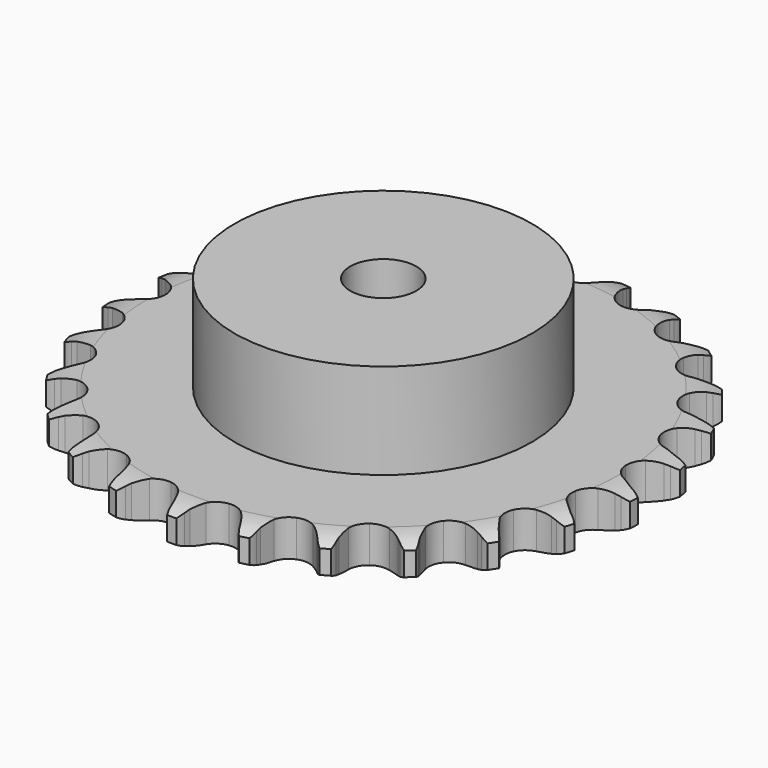
from build123d import *

# Parameters (mm, degrees)
PAD_DEPTH         = 11.1
SKETCH001_R       = 45
PAD001_DEPTH      = 40
SKETCH002_R       = 10
POCKET_DEPTH      = 0.001
POCKET_DEPTH_BACK = 40.001


with BuildPart() as part:
    # Sprocket → Pad (new body)
    with BuildSketch(Plane.XY):
        with BuildLine():
            ThreePointArc((-10.277544, 81.355136), (-8.691144, 79.605387), (-7.564451, 77.52961))
            Line((-7.564451, 77.52961), (-6.977682, 76.050618))
            ThreePointArc((-6.977682, 76.050618), (-6.042598, 74.097196), (-4.848531, 72.290419))
            ThreePointArc((-4.848531, 72.290419), (-2.704185, 70.525898), (0, 69.894126))
            ThreePointArc((0, 69.894126), (2.704185, 70.525898), (4.848531, 72.290419))
            ThreePointArc((4.848531, 72.290419), (6.042598, 74.097196), (6.977682, 76.050618))
            Line((6.977682, 76.050618), (7.564451, 77.52961))
            ThreePointArc((7.564451, 77.52961), (8.691144, 79.605387), (10.277544, 81.355136))
            ThreePointArc((10.277544, 81.355136), (11.378959, 79.265837), (11.95403, 76.975077))
            Line((11.95403, 76.975077), (12.154554, 75.396627))
            ThreePointArc((12.154554, 75.396627), (12.574465, 73.27203), (13.281691, 71.225063))
            ThreePointArc((13.281691, 71.225063), (14.919849, 68.9827), (17.381962, 67.698273))
            ThreePointArc((17.381962, 67.698273), (20.158306, 67.637693), (22.674102, 68.813502))
            Line((22.674102, 68.813502), (25.671485, 71.926069))
            ThreePointArc((25.671485, 71.926069), (26.123309, 72.581193), (26.60763, 73.212672))
            ThreePointArc((26.60763, 73.212672), (28.21515, 74.943037), (30.186855, 76.243294))
            ThreePointArc((30.186855, 76.243294), (30.73408, 73.945723), (30.721395, 71.583917))
            Line((30.721395, 71.583917), (30.523075, 70.005188))
            ThreePointArc((30.523075, 70.005188), (30.401428, 67.842912), (30.577375, 65.684375))
            ThreePointArc((30.577375, 65.684375), (31.606415, 63.105066), (33.671752, 61.248689))
            ThreePointArc((33.671752, 61.248689), (36.345806, 60.499564), (39.074975, 61.01278))
            Line((39.074975, 61.01278), (42.752254, 63.282141))
            ThreePointArc((42.752254, 63.282141), (43.352806, 63.804318), (43.978953, 64.295513))
            ThreePointArc((43.978953, 64.295513), (45.966295, 65.571742), (48.199416, 66.340805))
            ThreePointArc((48.199416, 66.340805), (48.158066, 63.979327), (47.558422, 61.694876))
            Line((47.558422, 61.694876), (46.973719, 60.215067))
            ThreePointArc((46.973719, 60.215067), (46.318157, 58.150974), (45.95177, 56.016495))
            ThreePointArc((45.95177, 56.016495), (46.307033, 53.262309), (47.845822, 50.950625))
            ThreePointArc((47.845822, 50.950625), (50.249565, 49.560025), (53.020624, 49.3784))
            Line((53.020624, 49.3784), (57.146742, 50.661963))
            ThreePointArc((57.146742, 50.661963), (57.858287, 51.018384), (58.586917, 51.33843))
            ThreePointArc((58.586917, 51.33843), (60.829208, 52.080332), (63.18343, 52.269879))
            ThreePointArc((63.18343, 52.269879), (62.556103, 49.992875), (61.407179, 47.929319))
            Line((61.407179, 47.929319), (60.472831, 46.641411))
            ThreePointArc((60.472831, 46.641411), (59.324546, 44.805197), (58.438847, 42.828894))
            ThreePointArc((58.438847, 42.828894), (58.09801, 40.072885), (59.013562, 37.451145))
            ThreePointArc((59.013562, 37.451145), (60.99596, 35.506447), (63.634792, 34.641394))
            Line((63.634792, 34.641394), (67.950489, 34.858507))
            ThreePointArc((67.950489, 34.858507), (68.728318, 35.026777), (69.51365, 35.155565))
            ThreePointArc((69.51365, 35.155565), (71.869999, 35.316524), (74.197396, 34.914645))
            ThreePointArc((74.197396, 34.914645), (73.023511, 32.865186), (71.397497, 31.152187))
            Line((71.397497, 31.152187), (70.172213, 30.137103))
            ThreePointArc((70.172213, 30.137103), (68.603356, 28.644145), (67.253996, 26.950195))
            ThreePointArc((67.253996, 26.950195), (66.238475, 24.365534), (66.473264, 21.598473))
            ThreePointArc((66.473264, 21.598473), (67.909754, 19.221868), (70.250553, 17.727741))
            Line((70.250553, 17.727741), (74.484658, 16.864763))
            ThreePointArc((74.484658, 16.864763), (75.279897, 16.834308), (76.072584, 16.763747))
            ThreePointArc((76.072584, 16.763747), (78.394933, 16.333648), (80.549268, 15.365595))
            ThreePointArc((80.549268, 15.365595), (78.902582, 13.672457), (76.901647, 12.417649))
            Line((76.901647, 12.417649), (75.462417, 11.739171))
            ThreePointArc((75.462417, 11.739171), (73.571565, 10.683275), (71.843329, 9.378116))
            ThreePointArc((71.843329, 9.378116), (70.216934, 7.127207), (69.756206, 4.388688))
            ThreePointArc((69.756206, 4.388688), (70.556528, 1.729509), (72.452212, -0.29981))
            Line((72.452212, -0.29981), (76.338682, -2.188655))
            ThreePointArc((76.338682, -2.188655), (77.101363, -2.415921), (77.851598, -2.6814))
            ThreePointArc((77.851598, -2.6814), (79.994025, -3.67553), (81.839932, -5.148932))
            ThreePointArc((81.839932, -5.148932), (79.823914, -6.379362), (77.573784, -7.097136))
            Line((77.573784, -7.097136), (76.01104, -7.396377))
            ThreePointArc((76.01104, -7.396377), (73.917001, -7.948864), (71.918481, -8.783224))
            ThreePointArc((71.918481, -8.783224), (69.783404, -10.558949), (68.656109, -13.096853))
            ThreePointArc((68.656109, -13.096853), (68.769976, -15.871522), (70.101433, -18.308524))
            Line((70.101433, -18.308524), (73.396065, -21.104553))
            ThreePointArc((73.396065, -21.104553), (74.078266, -21.51435), (74.73891, -21.958064))
            ThreePointArc((74.73891, -21.958064), (76.566798, -23.453762), (77.988293, -25.339933))
            ThreePointArc((77.988293, -25.339933), (75.729616, -26.030343), (73.371675, -26.165982))
            Line((73.371675, -26.165982), (71.783609, -26.067183))
            ThreePointArc((71.783609, -26.067183), (69.617961, -26.081546), (67.474731, -26.392682))
            ThreePointArc((67.474731, -26.392682), (64.965126, -27.581647), (63.242096, -29.759471))
            ThreePointArc((63.242096, -29.759471), (62.662354, -32.475287), (63.345923, -35.166845))
            Line((63.345923, -35.166845), (65.841704, -38.694374))
            ThreePointArc((65.841704, -38.694374), (66.40056, -39.260953), (66.930102, -39.855022))
            ThreePointArc((66.930102, -39.855022), (68.328598, -41.758307), (69.236363, -43.938732))
            ThreePointArc((69.236363, -43.938732), (66.876948, -44.045742), (64.559353, -43.590723))
            Line((64.559353, -43.590723), (63.04575, -43.100092))
            ThreePointArc((63.04575, -43.100092), (60.944568, -42.575429), (58.791295, -42.34379))
            ThreePointArc((58.791295, -42.34379), (56.064851, -42.871288), (53.85435, -44.552193))
            ThreePointArc((53.85435, -44.552193), (52.617426, -47.03851), (52.610155, -49.815505))
            Line((52.610155, -49.815505), (54.150266, -53.852885))
            ThreePointArc((54.150266, -53.852885), (54.550663, -54.540646), (54.915828, -55.247743))
            ThreePointArc((54.915828, -55.247743), (55.797061, -57.439025), (56.134057, -59.776699))
            ThreePointArc((56.134057, -59.776699), (53.822155, -59.293584), (51.690531, -58.276499))
            Line((51.690531, -58.276499), (50.346495, -57.424864))
            ThreePointArc((50.346495, -57.424864), (48.441803, -56.394141), (46.413786, -55.634283))
            ThreePointArc((46.413786, -55.634283), (43.641814, -55.46717), (41.082736, -56.545536))
            ThreePointArc((41.082736, -56.545536), (39.266351, -58.64613), (38.568698, -61.334073))
            Line((38.568698, -61.334073), (39.056368, -65.627621))
            ThreePointArc((39.056368, -65.627621), (39.273146, -66.393349), (39.450992, -67.169044))
            ThreePointArc((39.450992, -67.169044), (39.759589, -69.510637), (39.504642, -71.858676))
            ThreePointArc((39.504642, -71.858676), (37.385519, -70.815793), (35.573802, -69.300548))
            Line((35.573802, -69.300548), (34.483784, -68.14142))
            ThreePointArc((34.483784, -68.14142), (32.895262, -66.669402), (31.119928, -65.429069))
            ThreePointArc((31.119928, -65.429069), (28.476602, -64.577844), (25.729744, -64.985915))
            ThreePointArc((25.729744, -64.985915), (23.448027, -66.568798), (22.103828, -68.998795))
            Line((22.103828, -68.998795), (21.508415, -73.278732))
            ThreePointArc((21.508415, -73.278732), (21.527954, -74.074314), (21.507304, -74.869868))
            ThreePointArc((21.507304, -74.869868), (21.223876, -77.21464), (20.393005, -79.425509))
            ThreePointArc((20.393005, -79.425509), (18.599812, -77.888385), (17.22184, -75.970188))
            Line((17.22184, -75.970188), (16.454331, -74.576401))
            ThreePointArc((16.454331, -74.576401), (15.281791, -72.75558), (13.870691, -71.112706))
            ThreePointArc((13.870691, -71.112706), (11.522101, -69.630856), (8.760057, -69.34299))
            ThreePointArc((8.760057, -69.34299), (6.156377, -70.308704), (4.250093, -72.32807))
            Line((4.250093, -72.32807), (2.609009, -76.325472))
            ThreePointArc((2.609009, -76.325472), (2.43008, -77.100918), (2.212234, -77.866343))
            ThreePointArc((2.212234, -77.866343), (1.354589, -80.066964), (0, -82.001744))
            ThreePointArc((0, -82.001744), (-1.354589, -80.066964), (-2.212234, -77.866343))
            Line((-2.212234, -77.866343), (-2.609009, -76.325472))
            ThreePointArc((-2.609009, -76.325472), (-3.291891, -74.270256), (-4.250093, -72.32807))
            ThreePointArc((-4.250093, -72.32807), (-6.156377, -70.308704), (-8.760057, -69.34299))
            ThreePointArc((-8.760057, -69.34299), (-11.522101, -69.630856), (-13.870691, -71.112706))
            Line((-13.870691, -71.112706), (-16.454331, -74.576401))
            ThreePointArc((-16.454331, -74.576401), (-16.820484, -75.282987), (-17.22184, -75.970188))
            ThreePointArc((-17.22184, -75.970188), (-18.599812, -77.888385), (-20.393005, -79.425509))
            ThreePointArc((-20.393005, -79.425509), (-21.223876, -77.21464), (-21.507304, -74.869868))
            Line((-21.507304, -74.869868), (-21.508415, -73.278732))
            ThreePointArc((-21.508415, -73.278732), (-21.658732, -71.118259), (-22.103828, -68.998795))
            ThreePointArc((-22.103828, -68.998795), (-23.448027, -66.568798), (-25.729744, -64.985915))
            ThreePointArc((-25.729744, -64.985915), (-28.476602, -64.577844), (-31.119928, -65.429069))
            Line((-31.119928, -65.429069), (-34.483784, -68.14142))
            ThreePointArc((-34.483784, -68.14142), (-35.014155, -68.73475), (-35.573802, -69.300548))
            ThreePointArc((-35.573802, -69.300548), (-37.385519, -70.815793), (-39.504642, -71.858676))
            ThreePointArc((-39.504642, -71.858676), (-39.759589, -69.510637), (-39.450992, -67.169044))
            Line((-39.450992, -67.169044), (-39.056368, -65.627621))
            ThreePointArc((-39.056368, -65.627621), (-38.664675, -63.497641), (-38.568698, -61.334073))
            ThreePointArc((-38.568698, -61.334073), (-39.266351, -58.64613), (-41.082736, -56.545536))
            ThreePointArc((-41.082736, -56.545536), (-43.641814, -55.46717), (-46.413786, -55.634283))
            Line((-46.413786, -55.634283), (-50.346495, -57.424864))
            ThreePointArc((-50.346495, -57.424864), (-51.007758, -57.867655), (-51.690531, -58.276499))
            ThreePointArc((-51.690531, -58.276499), (-53.822155, -59.293584), (-56.134057, -59.776699))
            ThreePointArc((-56.134057, -59.776699), (-55.797061, -57.439025), (-54.915828, -55.247743))
            Line((-54.915828, -55.247743), (-54.150266, -53.852885))
            ThreePointArc((-54.150266, -53.852885), (-53.241174, -51.887232), (-52.610155, -49.815505))
            ThreePointArc((-52.610155, -49.815505), (-52.617426, -47.03851), (-53.85435, -44.552193))
            ThreePointArc((-53.85435, -44.552193), (-56.064851, -42.871288), (-58.791295, -42.34379))
            Line((-58.791295, -42.34379), (-63.04575, -43.100092))
            ThreePointArc((-63.04575, -43.100092), (-63.796356, -43.364522), (-64.559353, -43.590723))
            ThreePointArc((-64.559353, -43.590723), (-66.876948, -44.045742), (-69.236363, -43.938732))
            ThreePointArc((-69.236363, -43.938732), (-68.328598, -41.758307), (-66.930102, -39.855022))
            Line((-66.930102, -39.855022), (-65.841704, -38.694374))
            ThreePointArc((-65.841704, -38.694374), (-64.472335, -37.016557), (-63.345923, -35.166845))
            ThreePointArc((-63.345923, -35.166845), (-62.662354, -32.475287), (-63.242096, -29.759471))
            ThreePointArc((-63.242096, -29.759471), (-64.965126, -27.581647), (-67.474731, -26.392682))
            Line((-67.474731, -26.392682), (-71.783609, -26.067183))
            ThreePointArc((-71.783609, -26.067183), (-72.576394, -26.136638), (-73.371675, -26.165982))
            ThreePointArc((-73.371675, -26.165982), (-75.729616, -26.030343), (-77.988293, -25.339933))
            ThreePointArc((-77.988293, -25.339933), (-76.566798, -23.453762), (-74.73891, -21.958064))
            Line((-74.73891, -21.958064), (-73.396065, -21.104553))
            ThreePointArc((-73.396065, -21.104553), (-71.652461, -19.819997), (-70.101433, -18.308524))
            ThreePointArc((-70.101433, -18.308524), (-68.769976, -15.871522), (-68.656109, -13.096853))
            ThreePointArc((-68.656109, -13.096853), (-69.783404, -10.558949), (-71.918481, -8.783224))
            Line((-71.918481, -8.783224), (-76.01104, -7.396377))
            ThreePointArc((-76.01104, -7.396377), (-76.796191, -7.266492), (-77.573784, -7.097136))
            ThreePointArc((-77.573784, -7.097136), (-79.823914, -6.379362), (-81.839932, -5.148932))
            ThreePointArc((-81.839932, -5.148932), (-79.994025, -3.67553), (-77.851598, -2.6814))
            Line((-77.851598, -2.6814), (-76.338682, -2.188655))
            ThreePointArc((-76.338682, -2.188655), (-74.3304, -1.378072), (-72.452212, -0.29981))
            ThreePointArc((-72.452212, -0.29981), (-70.556528, 1.729509), (-69.756206, 4.388688))
            ThreePointArc((-69.756206, 4.388688), (-70.216934, 7.127207), (-71.843329, 9.378116))
            Line((-71.843329, 9.378116), (-75.462417, 11.739171))
            ThreePointArc((-75.462417, 11.739171), (-76.1906, 12.060234), (-76.901647, 12.417649))
            ThreePointArc((-76.901647, 12.417649), (-78.902582, 13.672457), (-80.549268, 15.365595))
            ThreePointArc((-80.549268, 15.365595), (-78.394933, 16.333648), (-76.072584, 16.763747))
            Line((-76.072584, 16.763747), (-74.484658, 16.864763))
            ThreePointArc((-74.484658, 16.864763), (-72.337887, 17.150441), (-70.250553, 17.727741))
            ThreePointArc((-70.250553, 17.727741), (-67.909754, 19.221868), (-66.473264, 21.598473))
            ThreePointArc((-66.473264, 21.598473), (-66.238475, 24.365534), (-67.253996, 26.950195))
            Line((-67.253996, 26.950195), (-70.172213, 30.137103))
            ThreePointArc((-70.172213, 30.137103), (-70.797674, 30.629172), (-71.397497, 31.152187))
            ThreePointArc((-71.397497, 31.152187), (-73.023511, 32.865186), (-74.197396, 34.914645))
            ThreePointArc((-74.197396, 34.914645), (-71.869999, 35.316524), (-69.51365, 35.155565))
            Line((-69.51365, 35.155565), (-67.950489, 34.858507))
            ThreePointArc((-67.950489, 34.858507), (-65.800118, 34.601329), (-63.634792, 34.641394))
            ThreePointArc((-63.634792, 34.641394), (-60.99596, 35.506447), (-59.013562, 37.451145))
            ThreePointArc((-59.013562, 37.451145), (-58.09801, 40.072885), (-58.438847, 42.828894))
            Line((-58.438847, 42.828894), (-60.472831, 46.641411))
            ThreePointArc((-60.472831, 46.641411), (-60.95627, 47.273565), (-61.407179, 47.929319))
            ThreePointArc((-61.407179, 47.929319), (-62.556103, 49.992875), (-63.18343, 52.269879))
            ThreePointArc((-63.18343, 52.269879), (-60.829208, 52.080332), (-58.586917, 51.33843))
            Line((-58.586917, 51.33843), (-57.146742, 50.661963))
            ThreePointArc((-57.146742, 50.661963), (-55.127885, 49.878089), (-53.020624, 49.3784))
            ThreePointArc((-53.020624, 49.3784), (-50.249565, 49.560025), (-47.845822, 50.950625))
            ThreePointArc((-47.845822, 50.950625), (-46.307033, 53.262309), (-45.95177, 56.016495))
            Line((-45.95177, 56.016495), (-46.973719, 60.215067))
            ThreePointArc((-46.973719, 60.215067), (-47.284759, 60.947587), (-47.558422, 61.694876))
            ThreePointArc((-47.558422, 61.694876), (-48.158066, 63.979327), (-48.199416, 66.340805))
            ThreePointArc((-48.199416, 66.340805), (-45.966295, 65.571742), (-43.978953, 64.295513))
            Line((-43.978953, 64.295513), (-42.752254, 63.282141))
            ThreePointArc((-42.752254, 63.282141), (-40.991765, 62.020825), (-39.074975, 61.01278))
            ThreePointArc((-39.074975, 61.01278), (-36.345806, 60.499564), (-33.671752, 61.248689))
            ThreePointArc((-33.671752, 61.248689), (-31.606415, 63.105066), (-30.577375, 65.684375))
            Line((-30.577375, 65.684375), (-30.523075, 70.005188))
            ThreePointArc((-30.523075, 70.005188), (-30.642173, 70.792048), (-30.721395, 71.583917))
            ThreePointArc((-30.721395, 71.583917), (-30.73408, 73.945723), (-30.186855, 76.243294))
            ThreePointArc((-30.186855, 76.243294), (-28.21515, 74.943037), (-26.60763, 73.212672))
            Line((-26.60763, 73.212672), (-25.671485, 71.926069))
            ThreePointArc((-25.671485, 71.926069), (-24.279982, 70.266564), (-22.674102, 68.813502))
            ThreePointArc((-22.674102, 68.813502), (-20.158306, 67.637693), (-17.381962, 67.698273))
            ThreePointArc((-17.381962, 67.698273), (-14.919849, 68.9827), (-13.281691, 71.225063))
            Line((-13.281691, 71.225063), (-12.154554, 75.396627))
            ThreePointArc((-12.154554, 75.396627), (-12.074226, 76.188384), (-11.95403, 76.975077))
            ThreePointArc((-11.95403, 76.975077), (-11.378959, 79.265837), (-10.277544, 81.355136))
        make_face()
    extrude(amount=PAD_DEPTH)

    # Sketch → Groove (revolve, cut)
    with BuildSketch(Plane.XZ):
        with BuildLine():
            Line((71.514719, 0), (80, 0))
            Line((88.485281, 0), (80, 0))
            Line((88.485281, 11.1), (88.485281, 0))
            Line((80, 11.1), (88.485281, 11.1))
            Line((71.514719, 11.1), (80, 11.1))
            ThreePointArc((80, 9.1), (75.873618, 10.593242), (71.514719, 11.1))
            Line((80, 2), (80, 9.1))
            ThreePointArc((71.514719, 0), (75.873618, 0.506758), (80, 2))
        make_face()
    revolve(axis=Axis((0, 0, 0), (0, 0, 1)), mode=Mode.SUBTRACT)

    # Sketch001 → Pad001 (join)
    with BuildSketch(Plane.XY):
        Circle(SKETCH001_R)
    extrude(amount=PAD001_DEPTH)

    # Sketch002 → Pocket (cut, two sides)
    with BuildSketch(Plane.XY) as pocket_sk:
        Circle(SKETCH002_R)
    extrude(amount=-POCKET_DEPTH, mode=Mode.SUBTRACT)
    extrude(pocket_sk.sketch, amount=POCKET_DEPTH_BACK, mode=Mode.SUBTRACT)


solid = part.part
